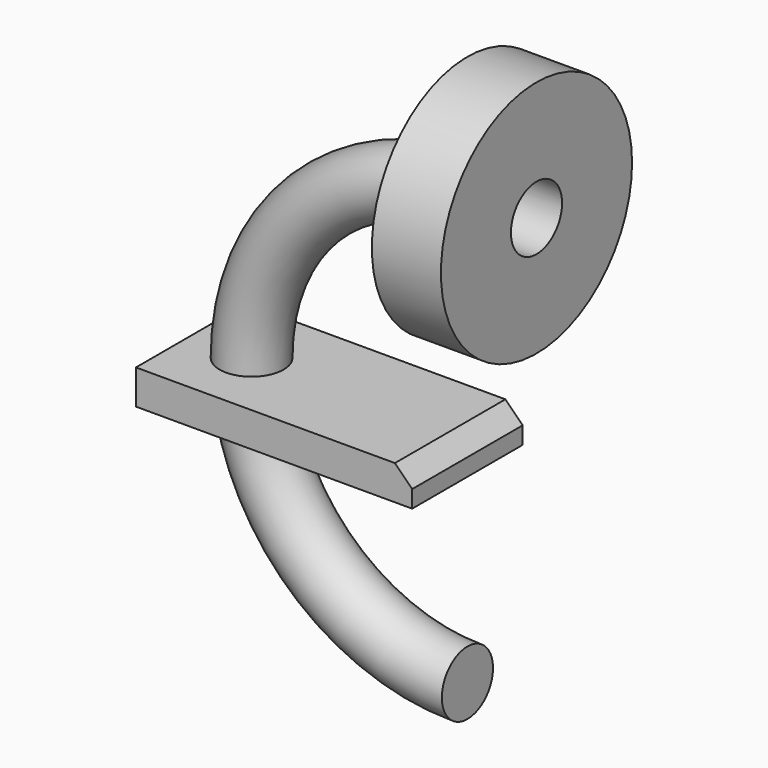
from build123d import *

# Parameters (mm, degrees)
F0_W     = 50.8
F0_H     = 25.4
F1_DEPTH = 6.35
F2_R     = 5.8790232396
F3_ANGLE = 90
F4_R     = 21.9663082532
F4_R_2   = 5.8790232396
F5_DEPTH = 12.7
F7_SIZE  = 3.175


with BuildPart() as f1:
    # F0 (on Top) → F1 (new body)
    with BuildSketch(Plane.XY):
        Rectangle(F0_W, F0_H)
    extrude(amount=F1_DEPTH)

    # F7
    f7_edges = [f1.edges().sort_by_distance(p)[0] for p in [
        (25.4, 0, 6.35),
    ]]
    chamfer(f7_edges, length=F7_SIZE)


with BuildPart() as f3:
    # F2 (on face) → F3 (revolve)
    with BuildSketch(Plane.XY.offset(6.35)):
        with Locations((-14.2937339842, 0)):
            Circle(F2_R)
    revolve(axis=Axis((25.4, 0, 6.35), (0, 1, 0)), revolution_arc=F3_ANGLE)


with BuildPart() as f5:
    # F4 (on face) → F5 (new body)
    with BuildSketch(Plane.YZ.offset(25.4)):
        with Locations((0, 46.0437339842)):
            Circle(F4_R)
        with Locations((0, 46.0437339842)):
            Circle(F4_R_2, mode=Mode.SUBTRACT)
    extrude(amount=F5_DEPTH)


with BuildPart() as f6_1:
    # F6: instance of F3
    add(f3.part.mirror(Plane.XY.offset(6.35)))


solid = Compound([f1.part, f3.part, f5.part, f6_1.part])
